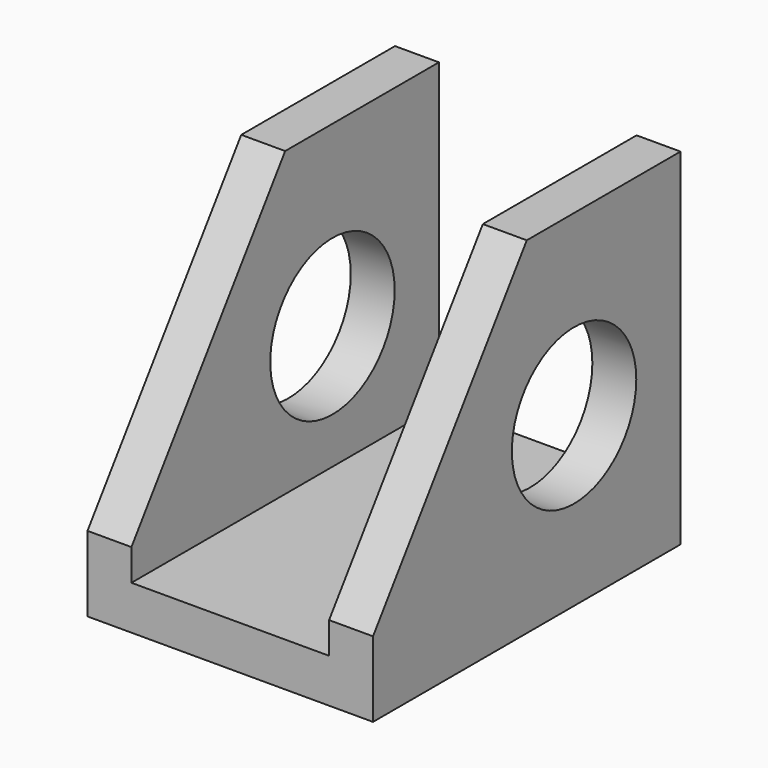
from build123d import *

# Parameters (mm, degrees)
F1_DEPTH = 22.225
F3_DEPTH = 33.02
F4_R     = 8.992991
F5_DEPTH = 33.021


with BuildPart() as f1:
    # F0 (on Front) → F1 (new body, symmetric)
    with BuildSketch(Plane.XZ):
        Polygon((-16.51, 40), (-16.51, 0), (0, 0), (16.51, 0), (16.51, 40), (11.43, 40), (11.43, 5.08), (0, 5.08), (-11.43, 5.08), (-11.43, 40), align=None)
    extrude(amount=F1_DEPTH, both=True)

    # F2 (on face) → F3 (cut)
    with BuildSketch(Plane.YZ.offset(16.51)):
        Polygon((-22.225, 40), (-22.225, 8.714859), (0, 40), align=None)
    extrude(amount=-F3_DEPTH, mode=Mode.SUBTRACT)

    # F4 (on face) → F5 (cut, through all)
    with BuildSketch(Plane.YZ.offset(16.51)):
        with Locations((6.837589, 19.389018)):
            Circle(F4_R)
    extrude(amount=-F5_DEPTH, mode=Mode.SUBTRACT)


solid = f1.part
